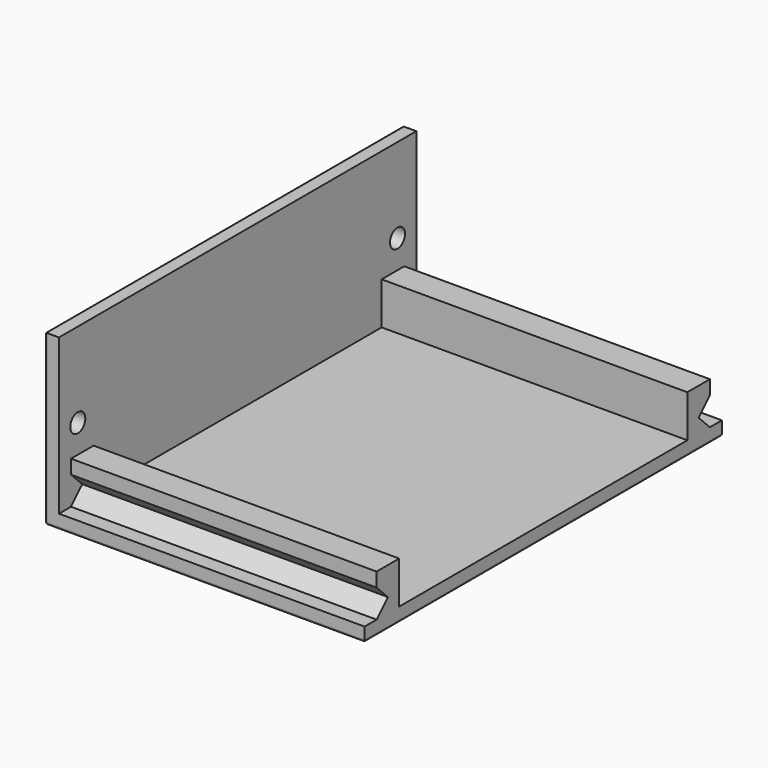
from build123d import *

# Parameters (mm, degrees)
SKETCH_W     = 95
SKETCH_H     = 36
PAD_DEPTH    = 3
PAD001_DEPTH = 65
SKETCH002_R  = 2
POCKET_DEPTH = 68.001
FILLET_R     = 0.5


with BuildPart() as part:
    # Sketch → Pad (new body)
    with BuildSketch(Plane.YZ):
        with Locations((0, 18)):
            Rectangle(SKETCH_W, SKETCH_H)
    extrude(amount=PAD_DEPTH)

    # Sketch001 (on Face6 of Pad) → Pad001 (join)
    with BuildSketch(Plane.YZ.offset(3)):
        Polygon((-47.5, 0), (-47.5, 3), (-44.3, 3), (-41.3, 6), (-44.3, 9), (-44.3, 12), (-38.3, 12), (-38.3, 3), (38.3, 3), (38.3, 12), (44.3, 12), (44.3, 9), (41.3, 6), (44.3, 3), (47.5, 3), (47.5, 0), align=None)
    extrude(amount=PAD001_DEPTH)

    # Sketch002 (on Face1 of Pad001) → Pocket (cut, through all)
    with BuildSketch(Plane(origin=(0, 0, 0), x_dir=(0, 1, 0), z_dir=(-1, 0, 0))):
        with Locations((-42.5, -18)):
            Circle(SKETCH002_R)
        with Locations((42.5, -18)):
            Circle(SKETCH002_R)
    extrude(amount=-POCKET_DEPTH, mode=Mode.SUBTRACT)

    # Fillet
    fillet_edges = [part.edges().sort_by_distance(p)[0] for p in [
        (0, 0, 0),
        (34, 47.5, 0),
        (68, 0, 0),
        (34, -47.5, 0),
        (0, -47.5, 18),
        (0, 47.5, 18),
        (0, 0, 36),
        (0, 40.5, 18),
        (0, -44.5, 18),
    ]]
    fillet(fillet_edges, radius=FILLET_R)


solid = part.part
